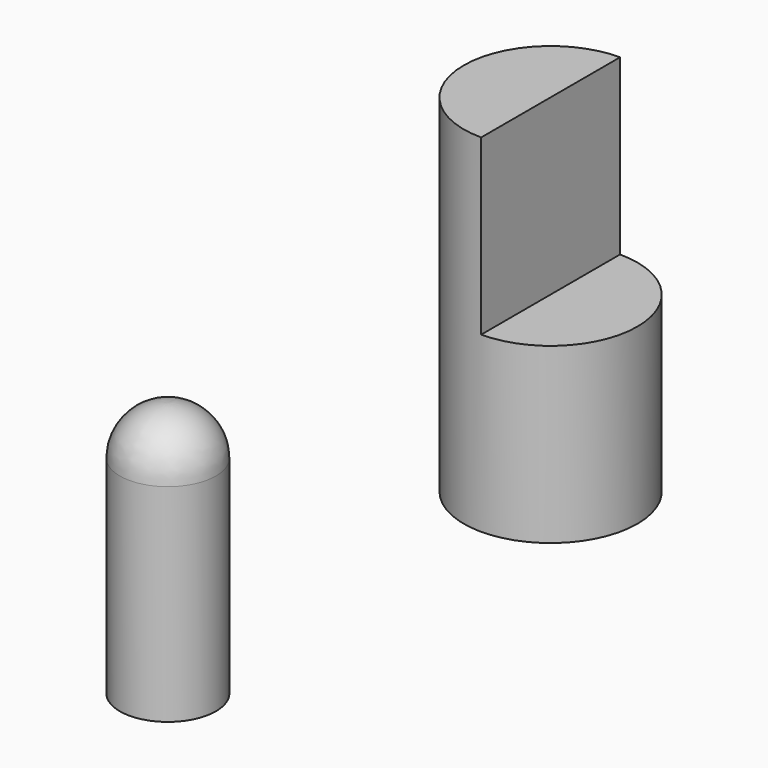
from build123d import *

# Parameters (mm, degrees)
F0_R     = 127
F1_DEPTH = 508
F2_W     = 411.146572
F2_H     = 425.647633
F3_DEPTH = 127.001


with BuildPart() as f1:
    # F0 (on Top) → F1 (new body)
    with BuildSketch(Plane.XY):
        Circle(F0_R)
    extrude(amount=F1_DEPTH)

    # F2 (on Right) → F3 (cut, through all)
    with BuildSketch(Plane.YZ):
        with Locations((22.096157, 466.823816)):
            Rectangle(F2_W, F2_H)
    extrude(amount=F3_DEPTH, mode=Mode.SUBTRACT)


with BuildPart() as f5:
    # F4 (on Right) → F5 (revolve)
    with BuildSketch(Plane.YZ):
        with BuildLine():
            Line((-699.975669, 327.658981), (-699.975669, 397.958308))
            ThreePointArc((-699.975669, 397.958308), (-749.6848, 377.368112), (-770.274997, 327.658981))
            Line((-770.274997, 327.658981), (-770.274997, 24.624679))
            Line((-770.274997, 24.624679), (-699.975669, 24.624679))
            Line((-699.975669, 24.624679), (-699.975669, 327.658981))
        make_face()
    revolve(axis=Axis((0, -699.975669, 176.14183), (0, 0, 1)))


solid = Compound([f1.part, f5.part])
